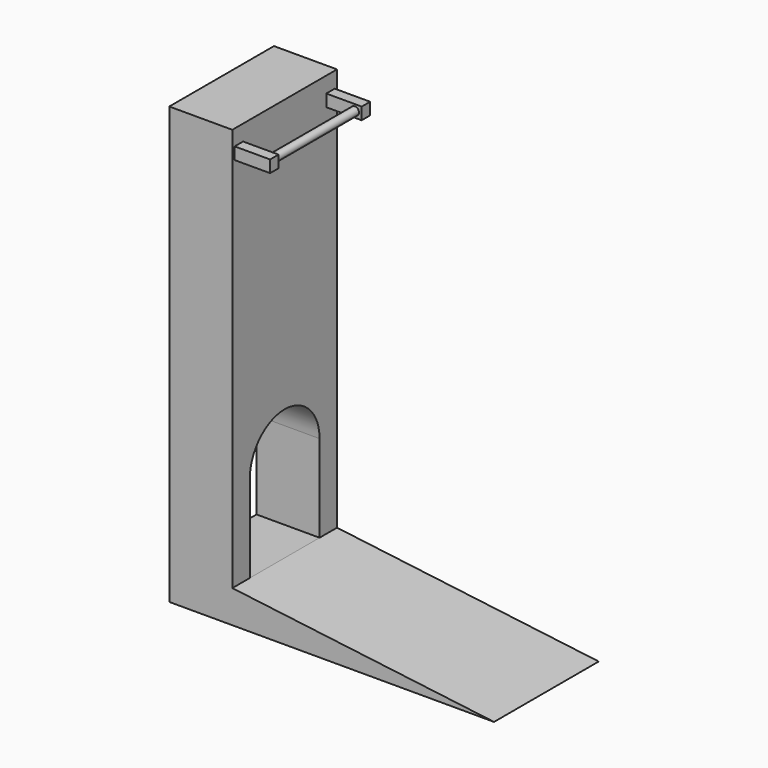
from build123d import *

# Parameters (mm, degrees)
F1_DEPTH = 609.6
F2_W     = 293.7587650299
F2_H     = 609.6
F3_DEPTH = 2032
F4_W     = 49.1579873383
F4_H     = 56.1940948486
F5_DEPTH = 165.1
F6_R     = 19.05
F7_DEPTH = 484.2420126617
F9_DEPTH = 293.7587650299


with BuildPart() as f1:
    # F0 (on Front) → F1 (new body)
    with BuildSketch(Plane.XZ):
        Polygon((-1219.2, 0), (0, 0), (-1219.2, 152.4), align=None)
    extrude(amount=F1_DEPTH)

    # F2 (on face) → F3 (join)
    with BuildSketch(Plane(origin=(0, 0, 0), x_dir=(1, 0, 0), z_dir=(0, 0, -1))):
        with Locations((-1366.079382515, 304.8)):
            Rectangle(F2_W, F2_H)
    extrude(amount=-F3_DEPTH)

    # F4 (on face) → F5 (join)
    with BuildSketch(Plane.YZ.offset(-1219.2)):
        with Locations((-571.5, 1930.4)):
            Rectangle(F4_W, F4_H)
        with Locations((-38.1, 1930.4)):
            Rectangle(F4_W, F4_H)
    extrude(amount=F5_DEPTH)

    # F6 (on face) → F7 (join, through all)
    with BuildSketch(Plane(origin=(0, -546.9210063308, 0), x_dir=(-1, 0, 0), z_dir=(0, 1, 0))):
        with Locations((1085.85, 1930.4)):
            Circle(F6_R)
    extrude(amount=F7_DEPTH)

    # F8 (on face) → F9 (cut, through all)
    with BuildSketch(Plane.YZ.offset(-1219.2)):
        with BuildLine():
            Line((-508, 558.8), (-508, 152.4))
            Line((-508, 152.4), (-101.6, 152.4))
            Line((-101.6, 152.4), (-101.6, 558.8))
            ThreePointArc((-101.6, 558.8), (-304.8, 762), (-508, 558.8))
        make_face()
    extrude(amount=-F9_DEPTH, mode=Mode.SUBTRACT)


solid = f1.part
